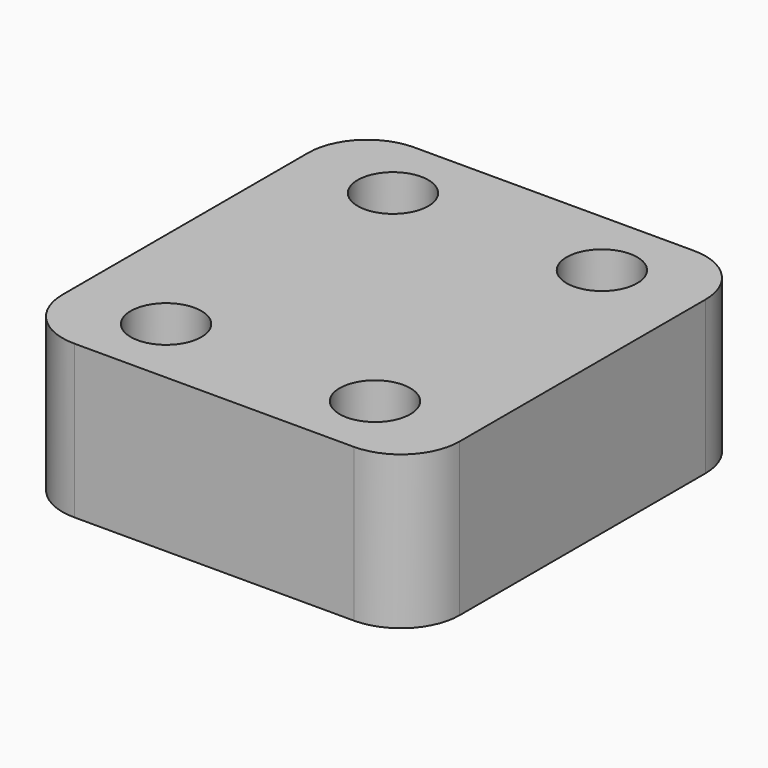
from build123d import *

# Parameters (mm, degrees)
F0_W     = 33.75
F0_H     = 36.1
F0_R     = 3
F1_DEPTH = 13
F2_R     = 5


with BuildPart() as f1:
    # F0 (on Top) → F1 (new body)
    with BuildSketch(Plane.XY):
        with Locations((-33.207593, 32.444141)):
            Rectangle(F0_W, F0_H)
        with Locations((-42.082593, 20.394141)):
            Circle(F0_R, mode=Mode.SUBTRACT)
        with Locations((-24.332593, 20.394141)):
            Circle(F0_R, mode=Mode.SUBTRACT)
        with Locations((-42.082593, 44.494141)):
            Circle(F0_R, mode=Mode.SUBTRACT)
        with Locations((-24.332593, 44.494141)):
            Circle(F0_R, mode=Mode.SUBTRACT)
    extrude(amount=F1_DEPTH)

    # F2
    f2_edges = [f1.edges().sort_by_distance(p)[0] for p in [
        (-50.082593, 14.394141, 6.5),
        (-16.332593, 14.394141, 6.5),
        (-50.082593, 50.494141, 6.5),
        (-16.332593, 50.494141, 6.5),
    ]]
    fillet(f2_edges, radius=F2_R)


solid = f1.part
